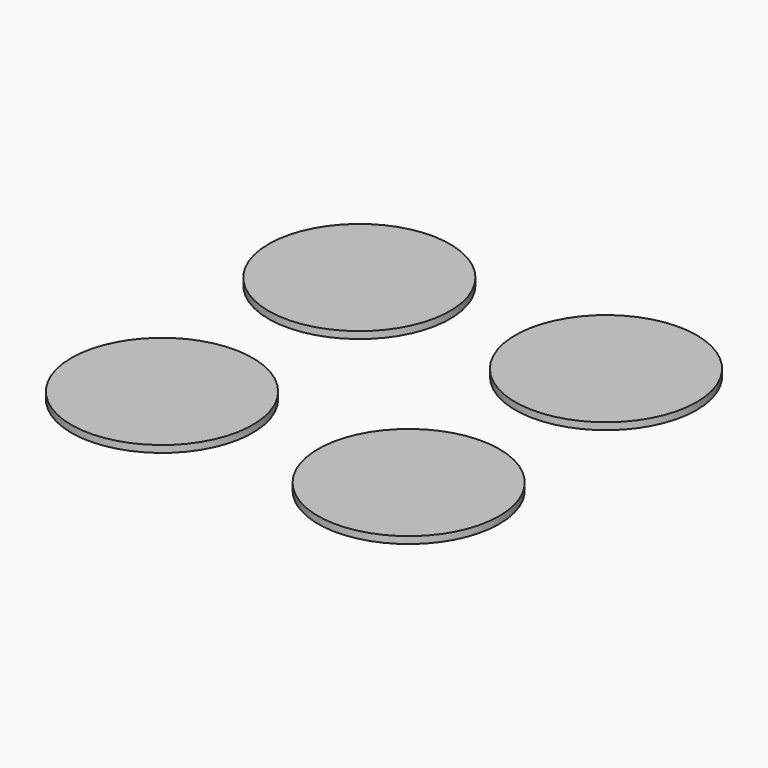
from build123d import *

# Parameters (mm, degrees)
F0_R     = 2.5
F1_DEPTH = 21
F2_R     = 65
F3_DEPTH = 5


with BuildPart() as f1:
    # F0 (on Top) → F1 (new body)
    with BuildSketch(Plane.XY):
        with Locations((88.388348, 88.388348)):
            Circle(F0_R)
    extrude(amount=F1_DEPTH)

    # F2 (on face) → F3 (join)
    with BuildSketch(Plane.XY.offset(21)):
        with Locations((88.388348, 88.388348)):
            Circle(F2_R)
    extrude(amount=F3_DEPTH)


with BuildPart() as f4_1:
    # F4: instance of F1
    add(f1.part.mirror(Plane.YZ))


with BuildPart() as f5_1:
    # F5: instance of F4_1
    add(f4_1.part.mirror(Plane.XZ))


with BuildPart() as f5_2:
    # F5: instance of F1
    add(f1.part.mirror(Plane.XZ))


solid = Compound([f1.part, f4_1.part, f5_1.part, f5_2.part])
